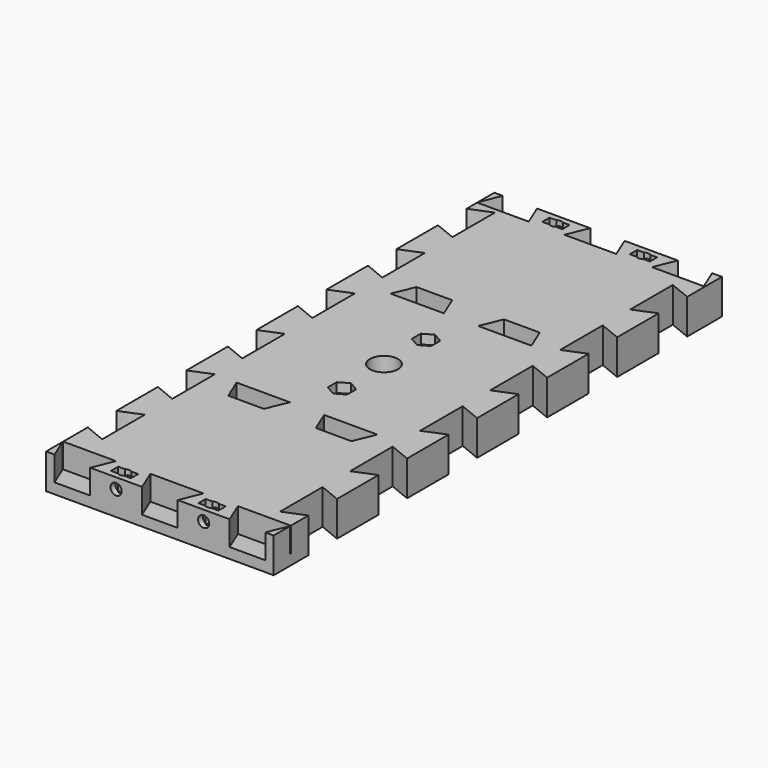
from build123d import *

# Parameters (mm, degrees)
SKETCH_W        = 65
SKETCH_H        = 160
PAD_DEPTH       = 10
POCKET_DEPTH    = 7
SKETCH003_R     = 1.6
POCKET002_DEPTH = 10
POCKET003_DEPTH = 10
SKETCH005_R     = 1.6
POCKET004_DEPTH = 10
SKETCH006_R     = 1.6
POCKET005_DEPTH = 10
SKETCH007_W     = 5.7
SKETCH007_H     = 2.6
POCKET006_DEPTH = 6.15
POCKET007_DEPTH = 11
SKETCH010_R     = 4
SKETCH010_R_2   = 1.6
POCKET008_DEPTH = 10
POCKET009_DEPTH = 2.7


with BuildPart() as part:
    # Sketch → Pad (new body)
    with BuildSketch(Plane.XY):
        with Locations((32.5, 80)):
            Rectangle(SKETCH_W, SKETCH_H)
    extrude(amount=PAD_DEPTH)

    # Sketch001 (on Face6 of Pad) → Pocket (cut)
    with BuildSketch(Plane.XY.offset(10)):
        Polygon((24.9, 6.1), (40.1, 6.1), (37.6, 0), (27.4, 0), align=None)
        Polygon((49.9, 6.1), (65.1, 6.1), (62.6, 0), (52.4, 0), align=None)
        Polygon((-0.1, 6.1), (15.1, 6.1), (12.6, 0), (2.4, 0), align=None)
        Polygon((39.7, 153.9), (24.9, 153.9), (27.4, 160), (37.2, 160), align=None)
        Polygon((14.7, 153.9), (-0.1, 153.9), (2.4, 160), (12.2, 160), align=None)
        Polygon((64.7, 153.9), (49.9, 153.9), (52.4, 160), (62.2, 160), align=None)
    extrude(amount=-POCKET_DEPTH, mode=Mode.SUBTRACT)

    # Sketch003 → Pocket002 (cut)
    with BuildSketch(Plane.XY.offset(10)):
        with Locations((20, 157)):
            Circle(SKETCH003_R)
        with Locations((45, 157)):
            Circle(SKETCH003_R)
        with Locations((20, 3)):
            Circle(SKETCH003_R)
        with Locations((45, 3)):
            Circle(SKETCH003_R)
    extrude(amount=-POCKET002_DEPTH, mode=Mode.SUBTRACT)

    # Sketch004 (on Face2 of Pocket002) → Pocket003 (cut)
    with BuildSketch(Plane(origin=(0, 0, 0), x_dir=(1, 0, 0), z_dir=(0, 0, -1))):
        Polygon((58.9, -84.9), (58.9, -100.1), (65, -97.6), (65, -87.4), align=None)
        Polygon((58.9, -59.9), (58.9, -75.1), (65, -72.6), (65, -62.4), align=None)
        Polygon((58.9, -34.9), (58.9, -50.1), (65, -47.6), (65, -37.4), align=None)
        Polygon((58.9, -9.9), (58.9, -25.1), (65, -22.6), (65, -12.4), align=None)
        Polygon((58.9, -134.9), (58.9, -150.1), (65, -147.6), (65, -137.4), align=None)
        Polygon((58.9, -109.9), (58.9, -125.1), (65, -122.6), (65, -112.4), align=None)
        Polygon((0, -14.9), (0, -25.1), (6.1, -27.6), (6.1, -12.4), align=None)
        Polygon((0, -39.9), (0, -50.1), (6.1, -52.6), (6.1, -37.4), align=None)
        Polygon((0, -64.9), (0, -75.1), (6.1, -77.6), (6.1, -62.4), align=None)
        Polygon((0, -89.9), (0, -100.1), (6.1, -102.6), (6.1, -87.4), align=None)
        Polygon((0, -114.9), (0, -125.1), (6.1, -127.6), (6.1, -112.4), align=None)
        Polygon((0, -139.9), (0, -150.1), (6.1, -152.6), (6.1, -137.4), align=None)
    extrude(amount=-POCKET003_DEPTH, mode=Mode.SUBTRACT)

    # Sketch005 (on Face40 of Pocket003) → Pocket004 (cut)
    with BuildSketch(Plane.XZ):
        with Locations((20, 7)):
            Circle(SKETCH005_R)
        with Locations((45, 7)):
            Circle(SKETCH005_R)
    extrude(amount=-POCKET004_DEPTH, mode=Mode.SUBTRACT)

    # Sketch006 (on Face1 of Pocket004) → Pocket005 (cut)
    with BuildSketch(Plane(origin=(0, 160, 0), x_dir=(-1, 0, 0), z_dir=(0, 1, 0))):
        with Locations((-45, 7)):
            Circle(SKETCH006_R)
        with Locations((-20, 7)):
            Circle(SKETCH006_R)
    extrude(amount=-POCKET005_DEPTH, mode=Mode.SUBTRACT)

    # Sketch007 (on Face6 of Pocket005) → Pocket006 (cut)
    with BuildSketch(Plane.XY.offset(10)):
        with Locations((20, 157)):
            Rectangle(SKETCH007_W, SKETCH007_H)
        with Locations((45, 157)):
            Rectangle(SKETCH007_W, SKETCH007_H)
        with Locations((20, 3)):
            Rectangle(SKETCH007_W, SKETCH007_H)
        with Locations((45, 3)):
            Rectangle(SKETCH007_W, SKETCH007_H)
    extrude(amount=-POCKET006_DEPTH, mode=Mode.SUBTRACT)

    # Sketch009 (on Face6 of Pocket006) → Pocket007 (cut)
    with BuildSketch(Plane.XY.offset(10)):
        Polygon((14.9, 113.6), (25.1, 113.6), (27.6, 107.5), (12.4, 107.5), align=None)
        Polygon((39.9, 113.6), (50.1, 113.6), (52.6, 107.5), (37.4, 107.5), align=None)
        Polygon((12.4, 52.5), (27.6, 52.5), (25.1, 46.4), (14.9, 46.4), align=None)
        Polygon((37.4, 52.5), (52.6, 52.5), (50.1, 46.4), (39.9, 46.4), align=None)
    extrude(amount=-POCKET007_DEPTH, mode=Mode.SUBTRACT)

    # Sketch010 (on Face6 of Pocket007) → Pocket008 (cut)
    with BuildSketch(Plane.XY.offset(10)):
        with Locations((32.5, 80)):
            Circle(SKETCH010_R)
        with Locations((32.5, 95)):
            Circle(SKETCH010_R_2)
        with Locations((32.5, 65)):
            Circle(SKETCH010_R_2)
    extrude(amount=-POCKET008_DEPTH, mode=Mode.SUBTRACT)

    # Sketch011 (on Face6 of Pocket008) → Pocket009 (cut)
    with BuildSketch(Plane.XY.offset(10)):
        Polygon((35.275, 93.397853), (35.275, 96.602147), (32.5, 98.204294), (29.725, 96.602147), (29.725, 93.397853), (32.5, 91.795706), align=None)
        Polygon((35.275, 63.397853), (35.275, 66.602147), (32.5, 68.204294), (29.725, 66.602147), (29.725, 63.397853), (32.5, 61.795706), align=None)
    extrude(amount=-POCKET009_DEPTH, mode=Mode.SUBTRACT)


solid = part.part
